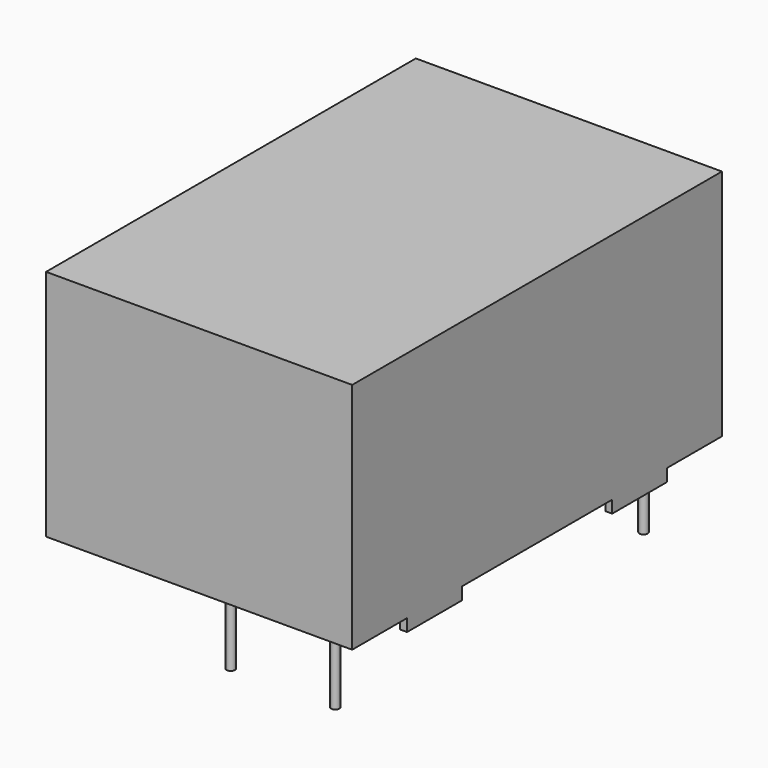
from build123d import *

# Parameters (mm, degrees)
F0_W     = 22.32
F0_H     = 33.7
F1_DEPTH = 17
F2_R     = 0.3
F3_DEPTH = 6.1
F2_W     = 0.5
F2_H     = 5
F4_DEPTH = 0.9


with BuildPart() as f1:
    # F0 (on Top) → F1 (new body)
    with BuildSketch(Plane.XY):
        Rectangle(F0_W, F0_H)
    extrude(amount=F1_DEPTH)

    # F2 (on face) → F3 (join)
    with BuildSketch(Plane(origin=(0, 0, 0), x_dir=(1, 0, 0), z_dir=(0, 0, -1))):
        with Locations((-0.11, 13.83)):
            Circle(F2_R)
        with Locations((7.51, 13.83)):
            Circle(F2_R)
        with Locations((-7.51, -13.99)):
            Circle(F2_R)
        with Locations((7.73, -13.99)):
            Circle(F2_R)
    extrude(amount=F3_DEPTH)

    # F2 (on face) → F4 (join)
    with BuildSketch(Plane(origin=(0, 0, 0), x_dir=(1, 0, 0), z_dir=(0, 0, -1))):
        with Locations((-10.91, 9.35)):
            Rectangle(F2_W, F2_H)
        with Locations((10.91, 9.35)):
            Rectangle(F2_W, F2_H)
        with Locations((-10.91, -9.35)):
            Rectangle(F2_W, F2_H)
        with Locations((10.91, -9.35)):
            Rectangle(F2_W, F2_H)
    extrude(amount=F4_DEPTH)


solid = f1.part
